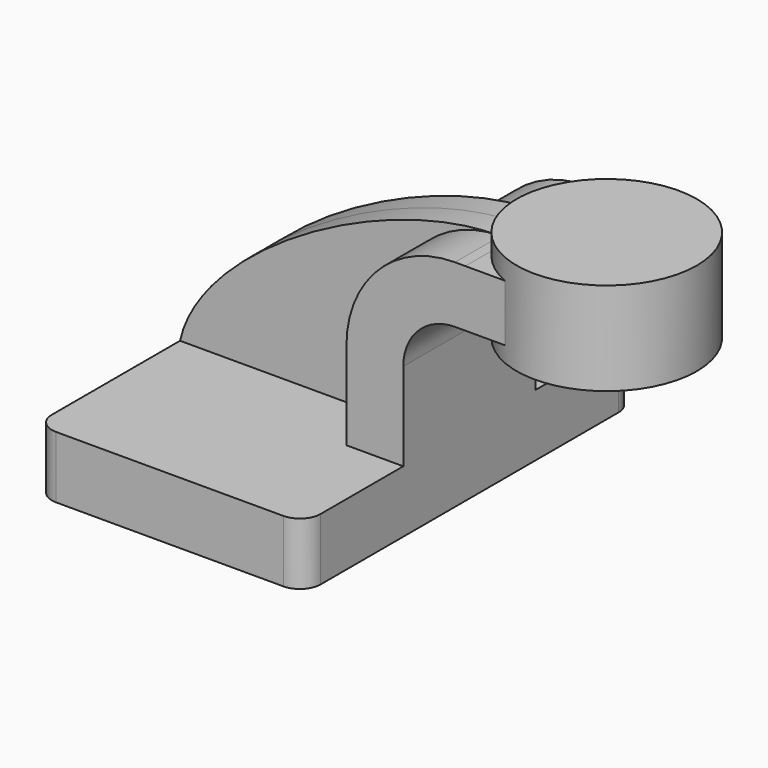
from build123d import *

# Parameters (mm, degrees)
F1_DEPTH = 63.5
F0_W     = 23.120732
F0_H     = 17.456719
F2_DEPTH = 25.4
F3_DEPTH = 7.9375
F5_R     = 6.35


with BuildPart() as f1:
    # F0 (on Front) → F1 (new body, symmetric)
    with BuildSketch(Plane.XZ):
        Polygon((23.818281, 9.525), (-41.275, 9.525), (-41.275, -9.525), (41.275, -9.525), (41.275, 9.525), align=None)
    extrude(amount=F1_DEPTH, both=True)

    # F0 (on Front) → F2 (join, symmetric)
    with BuildSketch(Plane.XZ):
        with Locations((71.885366, 61.128559)):
            Rectangle(F0_W, F0_H)
        with BuildLine():
            Line((23.818281, 36.5252), (23.818281, 9.525))
            Line((23.818281, 9.525), (41.275, 9.525))
            Line((41.275, 9.525), (41.275, 36.5252))
            ThreePointArc((41.275, 36.5252), (45.92468, 47.75052), (57.15, 52.4002))
            Line((57.15, 52.4002), (60.325, 52.4002))
            Line((60.325, 52.4002), (60.325, 69.856919))
            Line((60.325, 69.856919), (57.15, 69.856919))
            ThreePointArc((57.15, 69.856919), (33.580915, 60.094285), (23.818281, 36.5252))
        make_face()
    extrude(amount=F2_DEPTH, both=True)

    # F0 (on Front) → F3 (join, symmetric)
    with BuildSketch(Plane.XZ):
        with BuildLine():
            add(Edge.make_bspline(
                [(-41.275, 9.525), (-34.914378, 38.415078), (20.892713, 70.120394), (57.15, 69.856919)],
                knots=[0, 0, 0, 0, 115.44445, 115.44445, 115.44445, 115.44445], degree=3))
            Line((-41.275, 9.525), (23.818281, 9.525))
            Line((23.818281, 9.525), (23.818281, 36.5252))
            ThreePointArc((23.818281, 36.5252), (33.580915, 60.094285), (57.15, 69.856919))
        make_face()
    extrude(amount=F3_DEPTH, both=True)

    # F0 (on Front) → F4 (revolve)
    with BuildSketch(Plane.XZ):
        Polygon((83.445732, 76.2), (83.445732, 69.856919), (83.445732, 52.4002), (83.445732, 47.625), (111.125, 47.625), (111.125, 76.2), align=None)
    revolve(axis=Axis((83.445732, 0, 61.9125), (0, 0, 1)))

    # F5
    f5_edges = [f1.edges().sort_by_distance(p)[0] for p in [
        (-41.275, -63.5, 0),
        (41.275, -63.5, 0),
        (41.275, 63.5, 0),
        (-41.275, 63.5, 0),
    ]]
    fillet(f5_edges, radius=F5_R)


solid = f1.part
